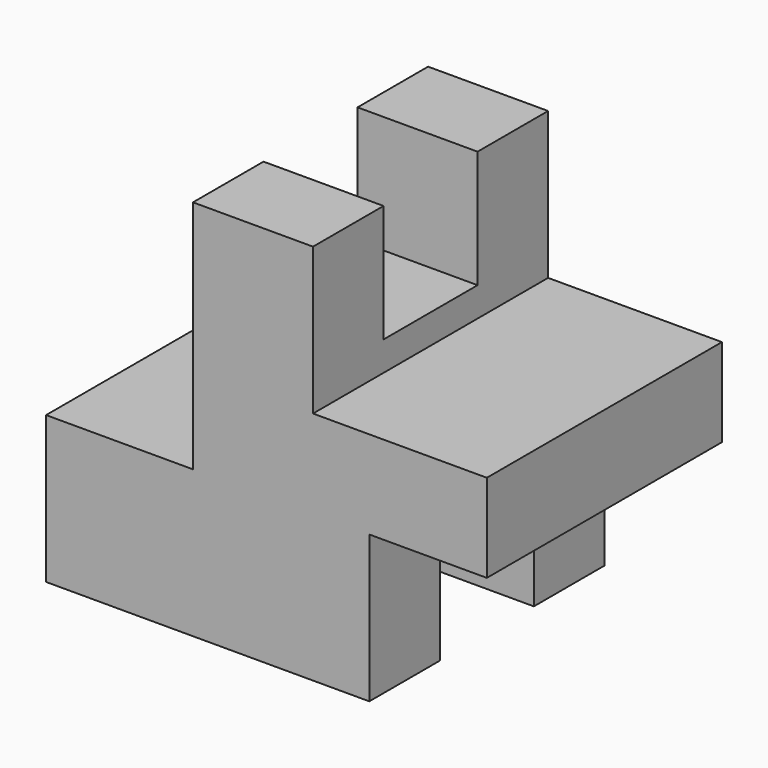
from build123d import *

# Parameters (mm, degrees)
F1_DEPTH = 635
F2_W     = 518.6996267823
F2_H     = 508
F3_DEPTH = 508
F4_W     = 508
F4_H     = 381
F5_DEPTH = 1905.001


with BuildPart() as f1:
    # F0 (on Front) → F1 (new body, symmetric)
    with BuildSketch(Plane.XZ):
        Polygon((0, 1016), (0, 0), (-635, 0), (-635, -635), (762, -635), (762, 0), (1270, 0), (1270, 381), (518.6996267823, 381), (518.6996267823, 1016), align=None)
    extrude(amount=F1_DEPTH, both=True)

    # F2 (on face) → F3 (cut)
    with BuildSketch(Plane.XY.offset(1016)):
        with Locations((259.3498133912, 0)):
            Rectangle(F2_W, F2_H)
    extrude(amount=-F3_DEPTH, mode=Mode.SUBTRACT)

    # F4 (on face) → F5 (cut, through all)
    with BuildSketch(Plane(origin=(-635, 0, 0), x_dir=(0, -1, 0), z_dir=(-1, 0, 0))):
        with Locations((0, -444.5)):
            Rectangle(F4_W, F4_H)
    extrude(amount=-F5_DEPTH, mode=Mode.SUBTRACT)


solid = f1.part
